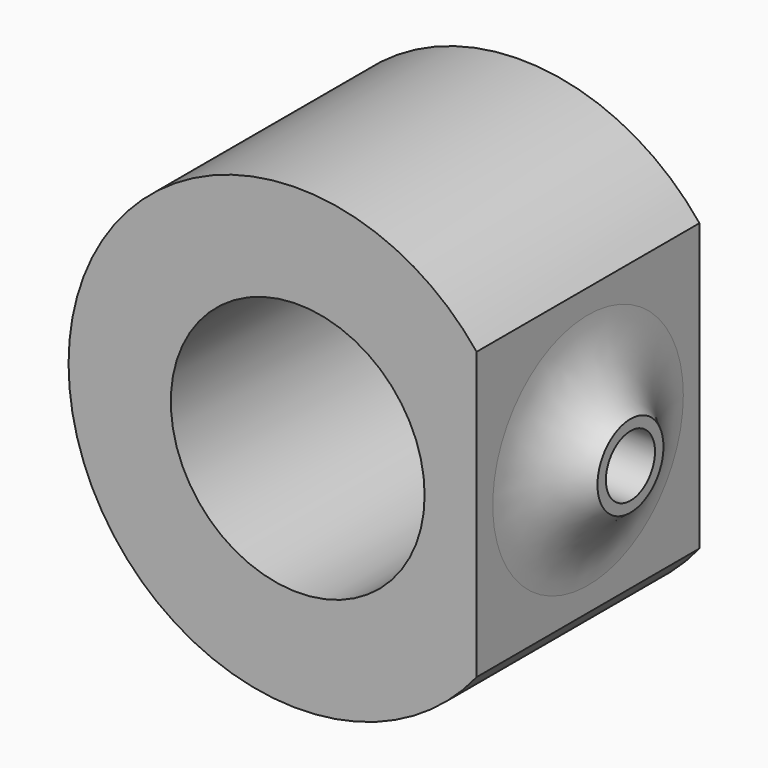
from build123d import *

# Parameters (mm, degrees)
F0_R     = 32.5
F0_R_2   = 18
F1_DEPTH = 39.5


with BuildPart() as f1:
    # F0 (on Front) → F1 (new body)
    with BuildSketch(Plane.XZ):
        Circle(F0_R)
        Circle(F0_R_2, mode=Mode.SUBTRACT)
    extrude(amount=F1_DEPTH)

    # F2 (on Top) → F3 (revolve, cut)
    with BuildSketch(Plane.XY):
        with BuildLine():
            Line((31.389073, -15.398732), (25.373673, -15.398732))
            Line((25.373673, -15.398732), (25.373673, -19.75))
            Line((25.373673, -19.75), (38.296562, -19.75))
            Line((38.296562, -19.75), (38.296562, 9.950572))
            Line((38.296562, 9.950572), (25.373673, 9.950572))
            Line((25.373673, 9.950572), (25.373673, -2.857341))
            ThreePointArc((25.373673, -2.857341), (26.975102, -9.14418), (31.389073, -13.898732))
            Line((31.389073, -13.898732), (31.389073, -15.398732))
        make_face()
    revolve(axis=Axis((5.5, -19.75, 0), (1, 0, 0)), mode=Mode.SUBTRACT)


solid = f1.part
